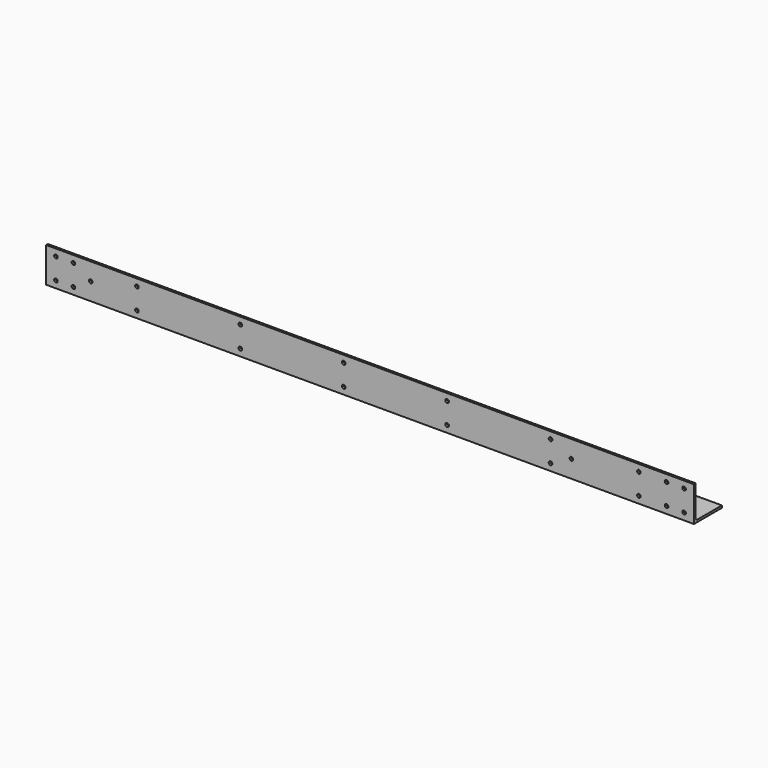
from build123d import *

# Parameters (mm, degrees)
F1_DEPTH = 939.8
F2_R     = 2.6162
F3_DEPTH = 50.801


with BuildPart() as f1:
    # F0 (on Right) → F1 (new body)
    with BuildSketch(Plane.YZ):
        with BuildLine():
            Line((0, -44.45), (0, 0))
            Line((0, 0), (-3.175, 0))
            Line((-3.175, 0), (-3.175, -50.8))
            Line((-3.175, -50.8), (47.625, -50.8))
            Line((47.625, -50.8), (47.625, -47.625))
            Line((47.625, -47.625), (3.175, -47.625))
            ThreePointArc((3.175, -47.625), (0.929936, -46.695064), (0, -44.45))
        make_face()
    extrude(amount=-F1_DEPTH)

    # F2 (on face) → F3 (cut, through all)
    with BuildSketch(Plane.XZ.offset(3.175)):
        with Locations((-14.2875, -40.7416)):
            Circle(F2_R)
        with Locations((-14.2875, -10.0584)):
            Circle(F2_R)
        with Locations((-925.5125, -40.7416)):
            Circle(F2_R)
        with Locations((-925.5125, -10.0584)):
            Circle(F2_R)
        with Locations((-508, -10.0584)):
            Circle(F2_R)
        with Locations((-508, -40.7416)):
            Circle(F2_R)
        with Locations((-875.03, -25.4)):
            Circle(F2_R)
        with Locations((-177.8, -25.4)):
            Circle(F2_R)
        with Locations((-39.6875, -40.7416)):
            Circle(F2_R)
        with Locations((-39.6875, -10.0584)):
            Circle(F2_R)
        with Locations((-900.1125, -10.0584)):
            Circle(F2_R)
        with Locations((-900.1125, -40.7416)):
            Circle(F2_R)
        with Locations((-79.8449, -40.7416)):
            Circle(F2_R)
        with Locations((-79.8449, -10.0584)):
            Circle(F2_R)
        with Locations((-808, -10.0584)):
            Circle(F2_R)
        with Locations((-808, -40.7416)):
            Circle(F2_R)
        with Locations((-658, -10.0584)):
            Circle(F2_R)
        with Locations((-658, -40.7416)):
            Circle(F2_R)
        with Locations((-358, -10.0584)):
            Circle(F2_R)
        with Locations((-358, -40.7416)):
            Circle(F2_R)
        with Locations((-208, -10.0584)):
            Circle(F2_R)
        with Locations((-208, -40.7416)):
            Circle(F2_R)
    extrude(amount=-F3_DEPTH, mode=Mode.SUBTRACT)


solid = f1.part
